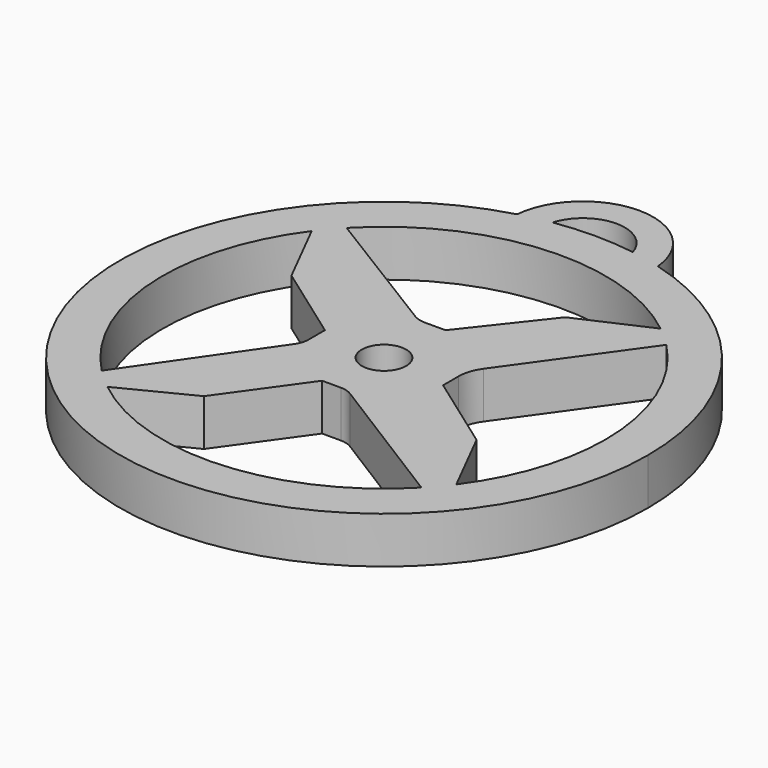
from build123d import *

# Parameters (mm, degrees)
F0_R     = 1.9101215723
F1_DEPTH = 4


with BuildPart() as f1:
    # F0 (on Top) → F1 (new body)
    with BuildSketch(Plane.XY):
        with BuildLine():
            ThreePointArc((-6.0531513917, 21.8742298989), (-13.7429684433, -18.0624858147), (22.6963119348, 0))
            ThreePointArc((22.6963119348, 0), (18.0624858147, 13.7429684433), (6.0531513917, 21.8742298989))
            ThreePointArc((6.0531513917, 21.8742298989), (4.7594317726, 22.1916737684), (3.4493169846, 22.4326723281))
            ThreePointArc((3.4493169846, 22.4326723281), (0, 22.6963119348), (-3.4493169846, 22.4326723281))
            ThreePointArc((-3.4493169846, 22.4326723281), (-4.7594317726, 22.1916737684), (-6.0531513917, 21.8742298989))
        make_face()
        with BuildLine():
            ThreePointArc((-13.7573868891, 13.1771319331), (-1.2846585107, 19.0066344341), (11.8590755996, 14.9085487531))
            ThreePointArc((11.8590755996, 14.9085487531), (12.770989471, 14.1352158785), (13.6325928654, 13.3061982462))
            ThreePointArc((13.6325928654, 13.3061982462), (17.64374385, 7.1833698886), (19.05, 0))
            ThreePointArc((19.05, 0), (18.0879982503, -5.9771915895), (15.2991528296, -11.3507014187))
            ThreePointArc((15.2991528296, -11.3507014187), (14.5569429212, -12.2881207997), (13.7573868891, -13.1771319331))
            ThreePointArc((13.7573868891, -13.1771319331), (1.2846585107, -19.0066344341), (-11.8590755996, -14.9085487531))
            ThreePointArc((-11.8590755996, -14.9085487531), (-12.770989471, -14.1352158785), (-13.6325928654, -13.3061982462))
            ThreePointArc((-13.6325928654, -13.3061982462), (-19.0066344597, -1.2846581323), (-15.2991523776, 11.3507020279))
            ThreePointArc((-15.2991523776, 11.3507020279), (-14.5569426766, 12.2881210895), (-13.7573868891, 13.1771319331))
        make_face(mode=Mode.SUBTRACT)
        with BuildLine():
            Line((5.8248881589, 12.1971240556), (0.7273336016, 5.7082199411))
            Line((0.7273336016, 5.7082199411), (-1.0417101139, 5.7082199411))
            ThreePointArc((-1.0417101139, 5.7082199411), (-1.6025670366, 5.7860861062), (-2.120999714, 6.0137946621))
            Line((-2.120999714, 6.0137946621), (-13.7573868891, 13.1771319331))
            ThreePointArc((-13.7573868891, 13.1771319331), (-14.5569426766, 12.2881210895), (-15.2991523776, 11.3507020279))
            Line((-15.2991523776, 11.3507020279), (-12.3152599012, 5.4464848658))
            Line((-12.3152599012, 5.4464848658), (-5.600554917, 0.65026702))
            Line((-5.600554917, 0.65026702), (-5.600554917, -1.1031694006))
            ThreePointArc((-5.600554917, -1.1031694006), (-5.687385407, -1.6725322463), (-5.9399825794, -2.1901307901))
            Line((-5.9399825794, -2.1901307901), (-13.6325928654, -13.3061982462))
            ThreePointArc((-13.6325928654, -13.3061982462), (-12.770989471, -14.1352158785), (-11.8590755996, -14.9085487531))
            Line((-11.8590755996, -14.9085487531), (-5.9548687338, -11.9246614821))
            Line((-5.9548687338, -11.9246614821), (-1.1586508879, -5.2099564978))
            Line((-1.1586508879, -5.2099564978), (0.4619562582, -5.2099564978))
            ThreePointArc((0.4619562582, -5.2099564978), (0.9911044483, -5.2843481694), (1.479229275, -5.5017558082))
            Line((1.479229275, -5.5017558082), (13.7573868891, -13.1771319331))
            ThreePointArc((13.7573868891, -13.1771319331), (14.5569429212, -12.2881207997), (15.2991528296, -11.3507014187))
            Line((15.2991528296, -11.3507014187), (12.3152655586, -5.4464945529))
            Line((12.3152655586, -5.4464945529), (5.6005620329, -0.6502777489))
            Line((5.6005620329, -0.6502777489), (5.6005620329, 1.0145878935))
            ThreePointArc((5.6005620329, 1.0145878935), (5.7563840041, 2.0114195843), (6.2089831019, 2.9131445773))
            Line((6.2089831019, 2.9131445773), (13.6325928654, 13.3061982462))
            ThreePointArc((13.6325928654, 13.3061982462), (12.770989471, 14.1352158785), (11.8590755996, 14.9085487531))
            Line((11.8590755996, 14.9085487531), (5.8248881589, 12.1971240556))
        make_face()
        Circle(F0_R, mode=Mode.SUBTRACT)
        with BuildLine():
            ThreePointArc((3.4493169846, 22.4326723281), (4.7594317726, 22.1916737684), (6.0531513917, 21.8742298989))
            ThreePointArc((6.0531513917, 21.8742298989), (0, 27.4248063795), (-6.0531513917, 21.8742298989))
            ThreePointArc((-6.0531513917, 21.8742298989), (-4.7594317726, 22.1916737684), (-3.4493169846, 22.4326723281))
            ThreePointArc((-3.4493169846, 22.4326723281), (0, 24.9867262937), (3.4493169846, 22.4326723281))
        make_face()
    extrude(amount=F1_DEPTH)


solid = f1.part
